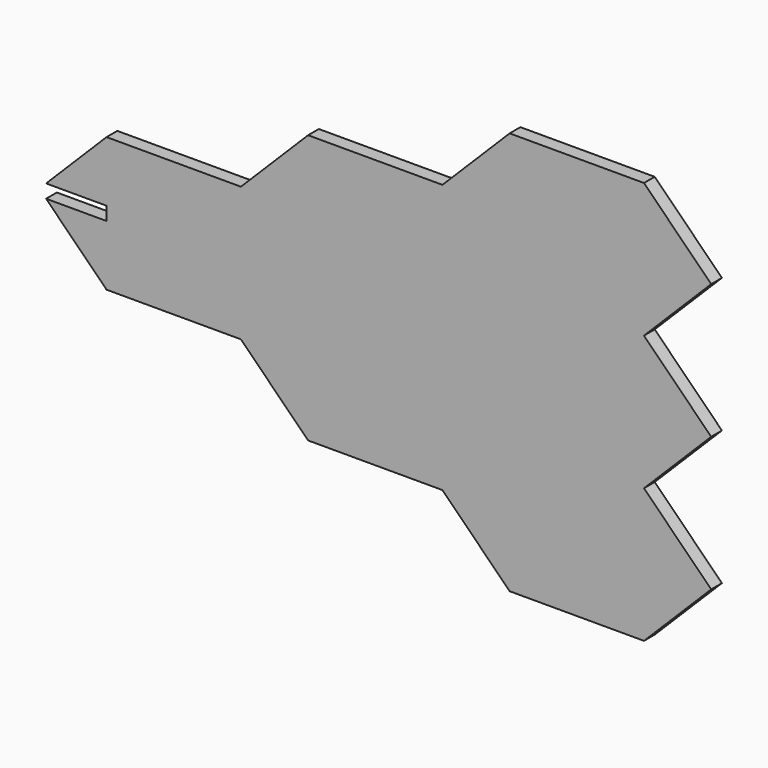
from build123d import *

# Parameters (mm, degrees)
F1_DEPTH      = 1
F1_DEPTH_BACK = 1


with BuildPart() as f1:
    # F0 (on Front) → F1 (new body, two sides)
    with BuildSketch(Plane.XZ) as f1_sk:
        Polygon((0, 1), (0, 0), (0, -1), (-9, -1), (0, -10), (20, -10), (30, -20), (50, -20), (60, -30), (80, -30), (90, -20), (80, -10), (90, 0), (80, 10), (90, 20), (80, 30), (60, 30), (50, 20), (30, 20), (20, 10), (0, 10), (-9, 1), align=None)
    extrude(amount=F1_DEPTH)
    extrude(f1_sk.sketch, amount=-F1_DEPTH_BACK)


solid = f1.part
